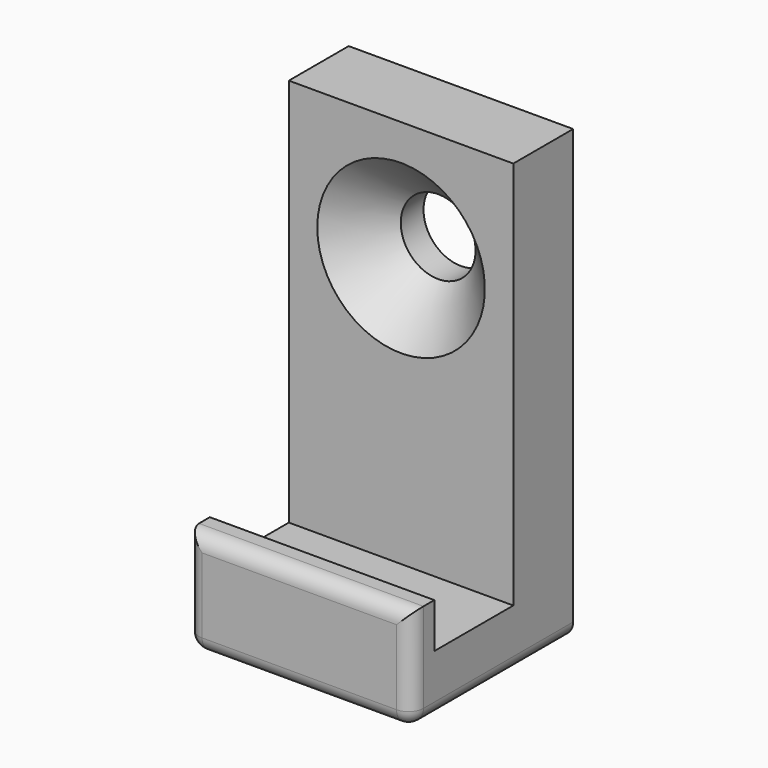
from build123d import *

# Parameters (mm, degrees)
F0_W           = 15
F0_H           = 30
F1_DEPTH       = 5
F3_D           = 5
F3_CSINK_D     = 11.2
F3_CSINK_ANGLE = 90
F4_W           = 15
F4_H           = 4
F5_DEPTH       = 8.5
F6_W           = 15
F6_H           = 1.9
F7_DEPTH       = 3
F8_R           = 1


with BuildPart() as f1:
    # F0 (on Front) → F1 (new body)
    with BuildSketch(Plane.XZ):
        Rectangle(F0_W, F0_H)
    extrude(amount=F1_DEPTH)

    # F3 (through all)
    with Locations(Plane.XZ.offset(5)):
        with Locations((0, 7)):
            CounterSinkHole(F3_D / 2, F3_CSINK_D / 2, counter_sink_angle=F3_CSINK_ANGLE)

    # F4 (on face) → F5 (join)
    with BuildSketch(Plane.XZ.offset(5)):
        with Locations((0, -13)):
            Rectangle(F4_W, F4_H)
    extrude(amount=F5_DEPTH)

    # F6 (on face) → F7 (join)
    with BuildSketch(Plane.XY.offset(-11)):
        with Locations((0, -12.55)):
            Rectangle(F6_W, F6_H)
    extrude(amount=F7_DEPTH)

    # F8
    f8_edges = [f1.edges().sort_by_distance(p)[0] for p in [
        (0, -13.5, -8),
        (7.5, -13.5, -11.5),
        (-7.5, -13.5, -11.5),
        (0, -13.5, -15),
        (7.5, -6.75, -15),
        (-7.5, -6.75, -15),
    ]]
    fillet(f8_edges, radius=F8_R)


solid = f1.part
